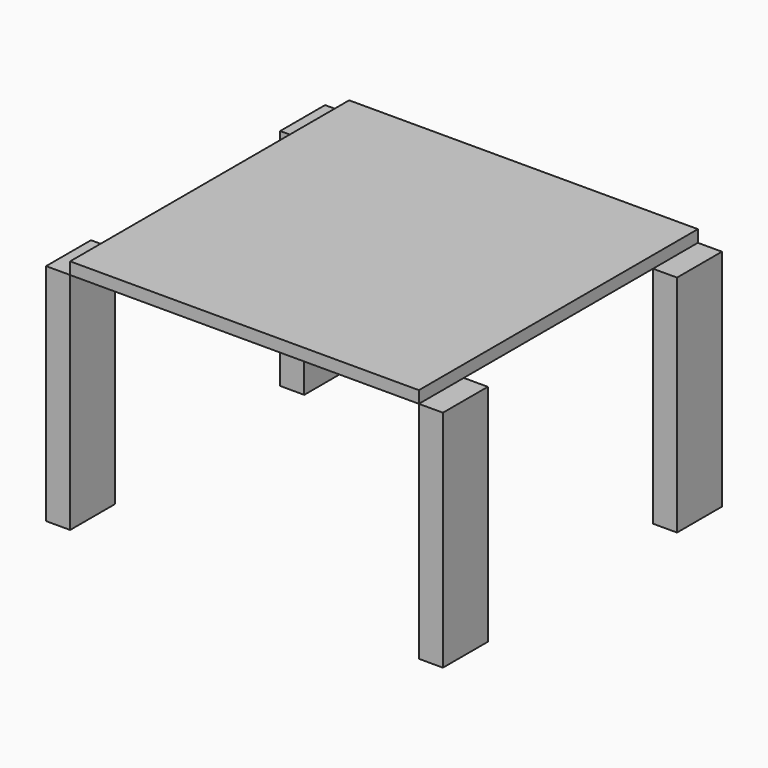
from build123d import *

# Parameters (mm, degrees)
F0_W     = 552.45
F0_H     = 552.45
F1_DEPTH = 19.05
F2_W     = 88.9
F2_H     = 355.6
F3_DEPTH = 38.1
F4_W     = 88.9
F4_H     = 355.6
F5_DEPTH = 38.1


with BuildPart() as f1:
    # F0 (on Top) → F1 (new body)
    with BuildSketch(Plane.XY):
        with Locations((23.802608, -23.802608)):
            Rectangle(F0_W, F0_H)
    extrude(amount=F1_DEPTH)


with BuildPart() as f3:
    # F2 (on face) → F3 (new body)
    with BuildSketch(Plane.YZ.offset(300.027608)):
        with Locations((-255.577608, -177.8)):
            Rectangle(F2_W, F2_H)
        with Locations((207.972392, -177.8)):
            Rectangle(F2_W, F2_H)
    extrude(amount=F3_DEPTH)


with BuildPart() as f5:
    # F4 (on face) → F5 (new body)
    with BuildSketch(Plane(origin=(-252.422392, 0, 0), x_dir=(0, -1, 0), z_dir=(-1, 0, 0))):
        with Locations((-207.972392, -177.8)):
            Rectangle(F4_W, F4_H)
        with Locations((255.577608, -177.8)):
            Rectangle(F4_W, F4_H)
    extrude(amount=F5_DEPTH)


solid = Compound([f1.part, f3.part, f5.part])
